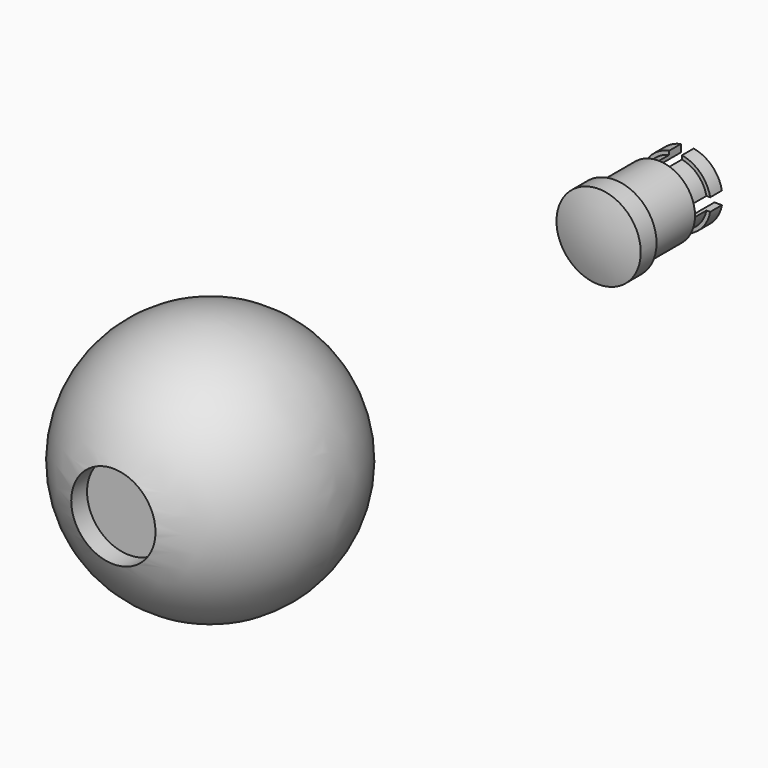
from build123d import *

# Parameters (mm, degrees)
CYLINDER001_R     = 2.3
CYLINDER001_DEPTH = 1
CYLINDER_R        = 2.3
CYLINDER_DEPTH    = 2
TUBE_R            = 2
TUBE_R_2          = 1.5
TUBE_DEPTH        = 3
BOX007_W          = 3
BOX007_H          = 10
BOX007_DEPTH      = 0.7
BOX006_W          = 3
BOX006_H          = 10
BOX006_DEPTH      = 0.7
BOX005_W          = 3
BOX005_H          = 10
BOX005_DEPTH      = 0.7
BOX004_W          = 3
BOX004_H          = 10
BOX004_DEPTH      = 0.7
TUBE002_R         = 1.9
TUBE002_R_2       = 1.5
TUBE002_DEPTH     = 0.8
TUBE001_R         = 1.7
TUBE001_R_2       = 1.5
TUBE001_DEPTH     = 2


with BuildPart() as cylinder001:
    # Cylinder001 → Cylinder001 (new body)
    with BuildSketch(Plane(origin=(0, -23.083, 1.982), x_dir=(1, 0, 0), z_dir=(0, -1, 0))):
        Circle(CYLINDER001_R)
    extrude(amount=CYLINDER001_DEPTH)


with BuildPart() as cylinder:
    # Cylinder → Cylinder (new body)
    with BuildSketch(Plane(origin=(0, -31.287, 1.982), x_dir=(1, 0, 0), z_dir=(0, -1, 0))):
        Circle(CYLINDER_R)
    extrude(amount=CYLINDER_DEPTH)


with BuildPart() as sphere:
    # Sphere → Sphere (revolve)
    with BuildSketch(Plane(origin=(0, -25.755, 1.989), x_dir=(1, 0, 0), z_dir=(0, -1, 0))):
        with BuildLine():
            ThreePointArc((0, -7), (7, 0), (0, 7))
            Line((0, 7), (0, -7))
        make_face()
    revolve(axis=Axis((0, -25.755, 1.989), (0, 0, 1)))


with BuildPart() as cut004:
    # Cut004 base: copy of Sphere
    add(sphere.part)

    # Cut004: cut Cylinder
    add(cylinder.part, mode=Mode.SUBTRACT)


with BuildPart() as common:
    # Common base: copy of Sphere
    add(sphere.part)

    # Common: intersect Cylinder
    add(cylinder.part, mode=Mode.INTERSECT)


with BuildPart() as common_1:
    # Common placement: moved
    add(common.part.moved(Location((0, 33.12, -0.018))))


with BuildPart() as fusion001:
    # Tube → Tube (new body)
    with BuildSketch(Plane(origin=(0, 4.834, 1.964), x_dir=(1, 0, 0), z_dir=(0, -1, 0))):
        Circle(TUBE_R)
        Circle(TUBE_R_2, mode=Mode.SUBTRACT)
    extrude(amount=TUBE_DEPTH)

    # Fusion001: union Common
    add(common_1.part)


with BuildPart() as cube007:
    # Box007 → Box007 (new body)
    with BuildSketch(Plane(origin=(0.326, -0.784, 2.677), x_dir=(0, 0, 1), z_dir=(-1, 0, 0))):
        with Locations((1.5, 5)):
            Rectangle(BOX007_W, BOX007_H)
    extrude(amount=BOX007_DEPTH)


with BuildPart() as cube006:
    # Box006 → Box006 (new body)
    with BuildSketch(Plane(origin=(-3.072, -0.784, 1.616), x_dir=(1, 0, 0), z_dir=(0, 0, 1))):
        with Locations((1.5, 5)):
            Rectangle(BOX006_W, BOX006_H)
    extrude(amount=BOX006_DEPTH)


with BuildPart() as cube005:
    # Box005 → Box005 (new body)
    with BuildSketch(Plane(origin=(0, -0.784, 1.616), x_dir=(1, 0, 0), z_dir=(0, 0, 1))):
        with Locations((1.5, 5)):
            Rectangle(BOX005_W, BOX005_H)
    extrude(amount=BOX005_DEPTH)


with BuildPart() as cube004:
    # Box004 → Box004 (new body)
    with BuildSketch(Plane(origin=(0.326, -0.784, -1.491), x_dir=(0, 0, 1), z_dir=(-1, 0, 0))):
        with Locations((1.5, 5)):
            Rectangle(BOX004_W, BOX004_H)
    extrude(amount=BOX004_DEPTH)


with BuildPart() as tube002:
    # Tube002 → Tube002 (new body)
    with BuildSketch(Plane(origin=(0, 6.835, 1.964), x_dir=(1, 0, 0), z_dir=(0, -1, 0))):
        Circle(TUBE002_R)
        Circle(TUBE002_R_2, mode=Mode.SUBTRACT)
    extrude(amount=TUBE002_DEPTH)


with BuildPart() as lens:
    # Tube001 → Tube001 (new body)
    with BuildSketch(Plane(origin=(0, 6.835, 1.964), x_dir=(1, 0, 0), z_dir=(0, -1, 0))):
        Circle(TUBE001_R)
        Circle(TUBE001_R_2, mode=Mode.SUBTRACT)
    extrude(amount=TUBE001_DEPTH)

    # Fusion: union Tube002
    add(tube002.part)

    # Cut: cut Cube004
    add(cube004.part, mode=Mode.SUBTRACT)

    # Cut001: cut Cube005
    add(cube005.part, mode=Mode.SUBTRACT)

    # Cut002: cut Cube006
    add(cube006.part, mode=Mode.SUBTRACT)

    # Cut003: cut Cube007
    add(cube007.part, mode=Mode.SUBTRACT)

    # Fusion002: union Fusion001
    add(fusion001.part)


solid = Compound([cylinder001.part, cut004.part, lens.part])
